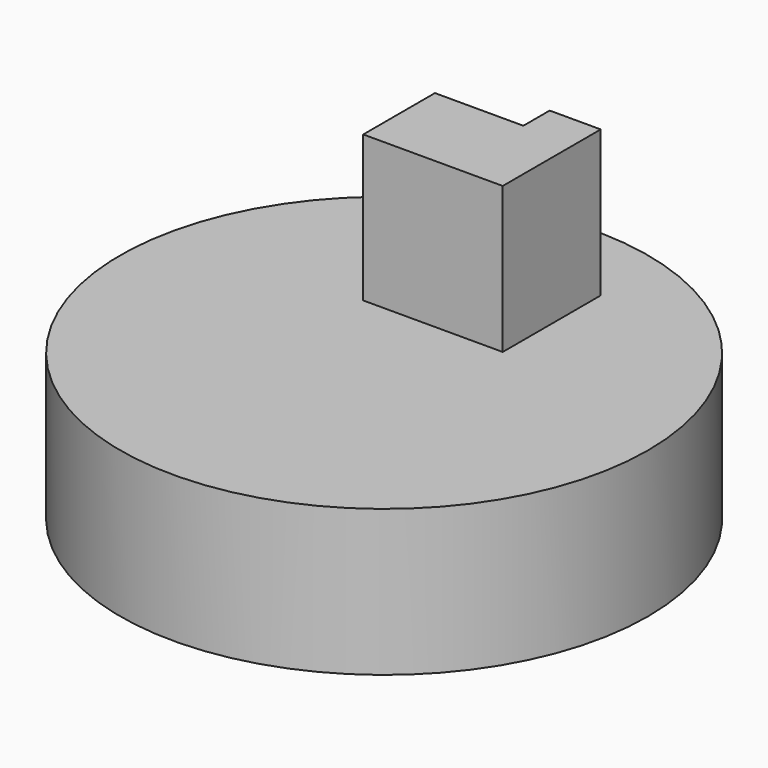
from build123d import *

# Parameters (mm, degrees)
F0_R     = 45.871374
F1_DEPTH = 25.4
F2_W     = 8.868102
F2_H     = 5.714997
F3_DEPTH = 25.4


with BuildPart() as f1:
    # F0 (on Top) → F1 (new body)
    with BuildSketch(Plane.XY):
        Circle(F0_R)
    extrude(amount=F1_DEPTH)

    # F2 (on face) → F3 (join)
    with BuildSketch(Plane.XY.offset(25.4)):
        Polygon((3.547242, 25.816035), (-11.824138, 25.816035), (-11.824138, 10.247586), (12.415344, 10.247586), (12.415344, 25.816035), align=None)
        with Locations((7.981293, 28.673533)):
            Rectangle(F2_W, F2_H)
    extrude(amount=F3_DEPTH)


solid = f1.part
